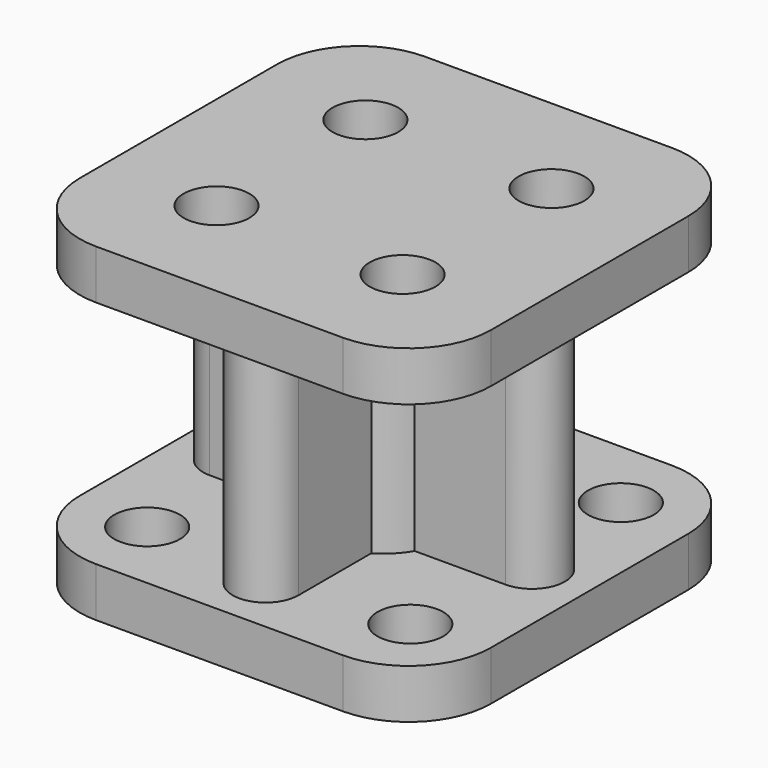
from build123d import *

# Parameters (mm, degrees)
SKETCH028_R   = 2
PAD018_DEPTH  = 3
SKETCH005_R   = 7
PAD003_DEPTH  = 4
FILLET_R      = 1
SKETCH029_R   = 4
SKETCH029_R_2 = 2
PAD019_DEPTH  = 14
SKETCH030_R   = 2
PAD020_DEPTH  = 3
SKETCH031_W   = 18
SKETCH031_H   = 4
PAD021_DEPTH  = 14
SKETCH032_W   = 4
SKETCH032_H   = 18
PAD022_DEPTH  = 14


with BuildPart() as part:
    # Sketch028 (on Face1 of CopySolid004) → Pad018 (new body)
    with BuildSketch(Plane.XY.offset(-16)):
        with BuildLine():
            Line((-7.5, -12.5), (7.5, -12.5))
            ThreePointArc((7.5, -12.5), (11.035534, -11.035534), (12.5, -7.5))
            Line((12.5, -7.5), (12.5, 7.5))
            ThreePointArc((12.5, 7.5), (11.035534, 11.035534), (7.5, 12.5))
            Line((7.5, 12.5), (-7.5, 12.5))
            ThreePointArc((-7.5, 12.5), (-11.035534, 11.035534), (-12.5, 7.5))
            Line((-12.5, 7.5), (-12.5, -7.5))
            ThreePointArc((-12.5, -7.5), (-11.035534, -11.035534), (-7.5, -12.5))
        make_face()
        with Locations((-8, 8)):
            Circle(SKETCH028_R, mode=Mode.SUBTRACT)
        with Locations((8, 8)):
            Circle(SKETCH028_R, mode=Mode.SUBTRACT)
        with Locations((8, -8)):
            Circle(SKETCH028_R, mode=Mode.SUBTRACT)
        with Locations((-8, -8)):
            Circle(SKETCH028_R, mode=Mode.SUBTRACT)
    extrude(amount=PAD018_DEPTH)

    # Sketch005 (on Face13 of Pad018) → Pad003 (join)
    with BuildSketch(Plane(origin=(0, 0, -16), x_dir=(1, 0, 0), z_dir=(0, 0, -1))):
        Circle(SKETCH005_R)
    extrude(amount=PAD003_DEPTH)

    # Fillet
    fillet_edges = [part.edges().sort_by_distance(p)[0] for p in [
        (-7, 0, -20),
    ]]
    fillet(fillet_edges, radius=FILLET_R)

    # Sketch029 (on Face17 of Fillet) → Pad019 (join)
    with BuildSketch(Plane.XY.offset(-13)):
        Circle(SKETCH029_R)
        with Locations((0, 9)):
            Circle(SKETCH029_R_2)
        with Locations((9, 0)):
            Circle(SKETCH029_R_2)
        with Locations((0, -9)):
            Circle(SKETCH029_R_2)
        with Locations((-9, 0)):
            Circle(SKETCH029_R_2)
    extrude(amount=PAD019_DEPTH)

    # Sketch030 (on Face25 of Pad019) → Pad020 (join)
    with BuildSketch(Plane.XY.offset(1)):
        with BuildLine():
            Line((-7.5, -12.5), (7.5, -12.5))
            ThreePointArc((7.5, -12.5), (11.035534, -11.035534), (12.5, -7.5))
            Line((12.5, -7.5), (12.5, 7.5))
            ThreePointArc((12.5, 7.5), (11.035534, 11.035534), (7.5, 12.5))
            Line((7.5, 12.5), (-7.5, 12.5))
            ThreePointArc((-7.5, 12.5), (-11.035534, 11.035534), (-12.5, 7.5))
            Line((-12.5, 7.5), (-12.5, -7.5))
            ThreePointArc((-12.5, -7.5), (-11.035534, -11.035534), (-7.5, -12.5))
        make_face()
        with Locations((-5.656851, 5.656857)):
            Circle(SKETCH030_R, mode=Mode.SUBTRACT)
        with Locations((5.656855, 5.656853)):
            Circle(SKETCH030_R, mode=Mode.SUBTRACT)
        with Locations((5.656855, -5.656853)):
            Circle(SKETCH030_R, mode=Mode.SUBTRACT)
        with Locations((-5.656851, -5.656857)):
            Circle(SKETCH030_R, mode=Mode.SUBTRACT)
    extrude(amount=PAD020_DEPTH)

    # Sketch031 (on Face17 of Pad020) → Pad021 (join)
    with BuildSketch(Plane.XY.offset(-13)):
        Rectangle(SKETCH031_W, SKETCH031_H)
    extrude(amount=PAD021_DEPTH)

    # Sketch032 (on Face17 of Pad021) → Pad022 (join)
    with BuildSketch(Plane.XY.offset(-13)):
        Rectangle(SKETCH032_W, SKETCH032_H)
    extrude(amount=PAD022_DEPTH)


with BuildPart() as part_1:
    # Body010 placement: moved
    add(part.part.moved(Location((0, -99, 8.5))))


solid = part_1.part
